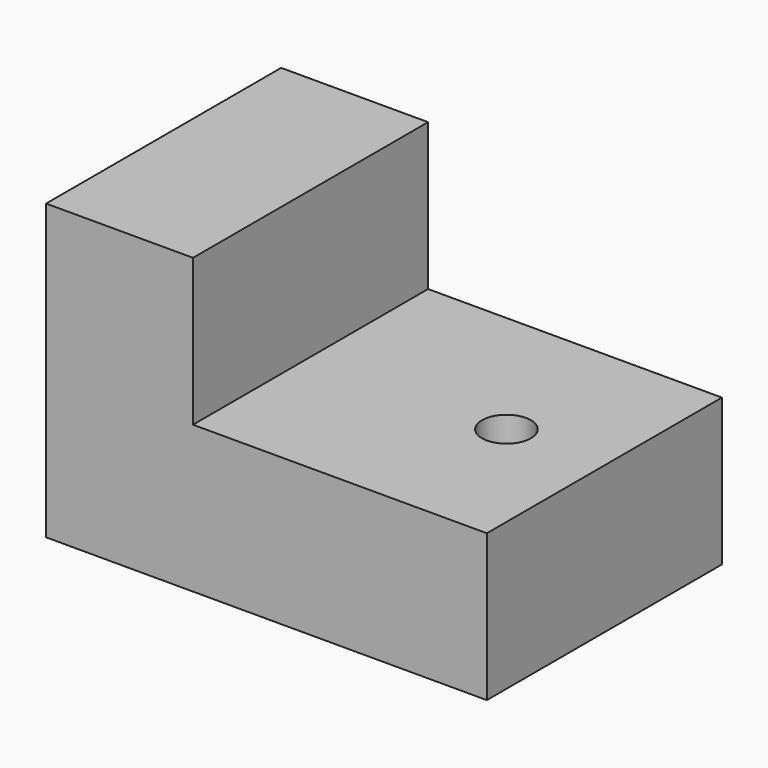
from build123d import *

# Parameters (mm, degrees)
F1_DEPTH = 6
F2_R     = 0.5
F3_DEPTH = 3.001


with BuildPart() as f1:
    # F0 (on Front) → F1 (new body)
    with BuildSketch(Plane.XZ):
        Polygon((0, 6), (0, 0), (9, 0), (9, 3), (3, 3), (3, 6), align=None)
    extrude(amount=F1_DEPTH)

    # F2 (on face) → F3 (cut, through all)
    with BuildSketch(Plane.XY.offset(3)):
        with Locations((7, -3)):
            Circle(F2_R)
    extrude(amount=-F3_DEPTH, mode=Mode.SUBTRACT)


solid = f1.part
